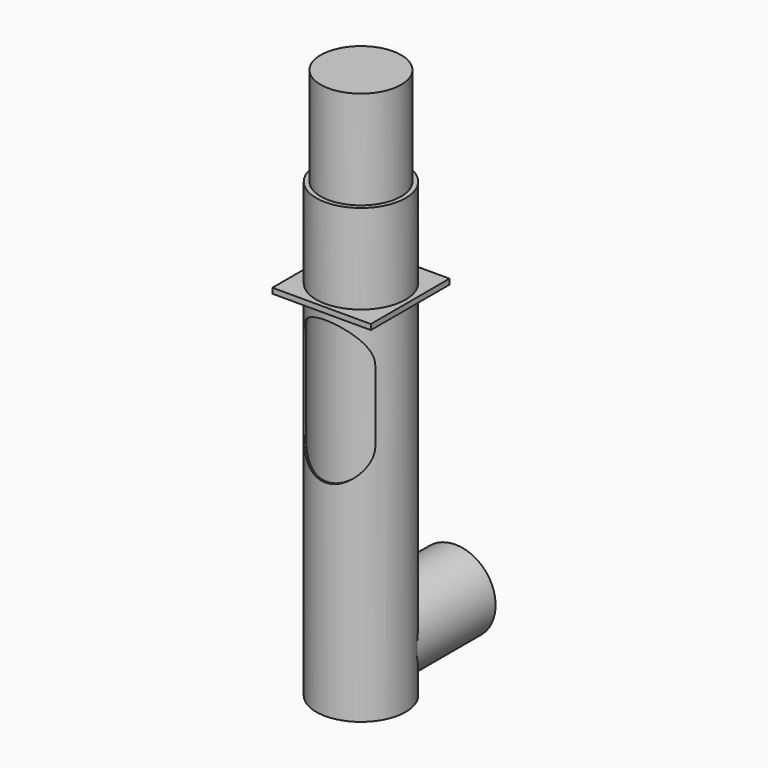
from build123d import *

# Parameters (mm, degrees)
F1_R      = 25
F1_R_2    = 24
F4_DEPTH  = 27.5
F5_R      = 25
F6_DEPTH  = 50
F7_R      = 22.5
F8_DEPTH  = 55
F9_R      = 21.5
F10_DEPTH = 20
F9_R_2    = 22.5
F11_DEPTH = 38.5
F13_DEPTH = 38.5


with BuildPart() as f2:
    # F2: sweep along a path in F0
    with BuildLine(Plane.YZ) as f2_path:
        Line((0, 0), (0, 200))
    # F1 (on Top) → F2 (sweep)
    with BuildSketch(Plane.XY):
        Circle(F1_R)
        Circle(F1_R_2, mode=Mode.SUBTRACT)
    sweep(path=f2_path.line)

    # F3 (on Right) → F4 (join, symmetric)
    with BuildSketch(Plane.YZ):
        Polygon((-27.5, 200), (-25, 200), (25, 200), (27.5, 200), (27.5, 203), (-27.5, 203), align=None)
    extrude(amount=F4_DEPTH, both=True)

    # F5 (on face) → F6 (join)
    with BuildSketch(Plane.XY.offset(203)):
        Circle(F5_R)
    extrude(amount=F6_DEPTH)

    # F7 (on face) → F8 (join)
    with BuildSketch(Plane.XY.offset(253)):
        Circle(F7_R)
    extrude(amount=F8_DEPTH)

    # F9 (on face) → F10 (cut)
    with BuildSketch(Plane(origin=(0, 27.5, 0), x_dir=(-1, 0, 0), z_dir=(0, 1, 0))):
        with Locations((0, 25)):
            Circle(F9_R)
    extrude(amount=-F10_DEPTH, mode=Mode.SUBTRACT)

    # F9 (on face) → F11 (join, symmetric)
    with BuildSketch(Plane(origin=(0, 27.5, 0), x_dir=(-1, 0, 0), z_dir=(0, 1, 0))):
        with Locations((0, 25)):
            Circle(F9_R_2)
        with Locations((0, 25)):
            Circle(F9_R, mode=Mode.SUBTRACT)
    extrude(amount=F11_DEPTH, both=True)

    # F12 (on face) → F13 (cut)
    with BuildSketch(Plane.XZ.offset(27.5)):
        with BuildLine():
            Line((-20, 175), (-20, 135))
            ThreePointArc((-20, 135), (0, 115), (20, 135))
            Line((20, 135), (20, 175))
            ThreePointArc((20, 175), (0, 195), (-20, 175))
        make_face()
    extrude(amount=-F13_DEPTH, mode=Mode.SUBTRACT)


solid = f2.part
